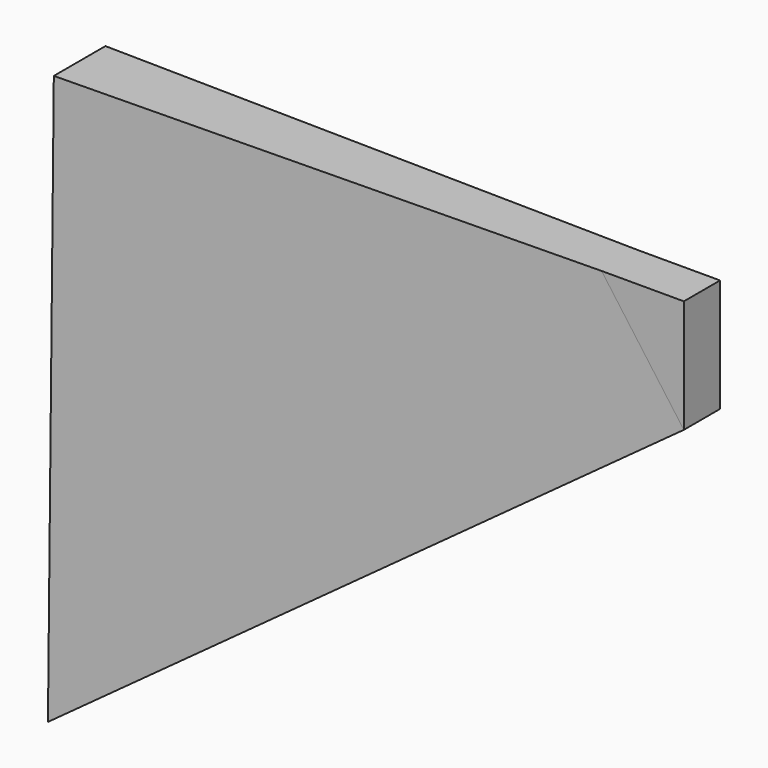
from build123d import *

# Parameters (mm, degrees)
F1_DEPTH = 7
F3_DEPTH = 40.4378042152
F4_DEPTH = 5.8827169768
F5_R     = 1.75
F6_DEPTH = 2


with BuildPart() as f1:
    # F0 (on Front) → F1 (new body)
    with BuildSketch(Plane.XZ):
        Polygon((27.5, 15), (27.5, 25), (-27.5, 25), (-27.5, -25), align=None)
    extrude(amount=F1_DEPTH)

    # F2 (on face) → F3 (cut, through all)
    with BuildSketch(Plane(origin=(2.3783783784, 0, -3.2702702703), x_dir=(0.8087360843, 0, 0.5881716977), z_dir=(0.5881716977, 0, -0.8087360843))):
        Polygon((31.0628177835, 7), (-36.9445347602, 7), (31.0628177835, 5.5), align=None)
        Polygon((31.0628177835, 1.5), (-36.9445347602, 0), (31.0628177835, 0), align=None)
    extrude(amount=-F3_DEPTH, mode=Mode.SUBTRACT)

    # F4 (cut, through all): faces of the model
    f4_faces = [f1.faces().sort_by_distance(p)[0] for p in [
        (23.8636363636, -6.25, 20),
        (23.8636363636, -0.75, 20),
    ]]
    extrude(f4_faces, amount=-F4_DEPTH, mode=Mode.SUBTRACT)

    # F5 (on face) → F6 (cut)
    with BuildSketch(Plane(origin=(-0.0145283595, -0.8144686369, -0.0105660796), x_dir=(-0.9998409705, 0.017832, 0.0002313341), z_dir=(0.0178335005, 0.9997568455, 0.0129698185))):
        with Locations((7.489843337, 10.0109374025)):
            Circle(F5_R)
    extrude(amount=-F6_DEPTH, mode=Mode.SUBTRACT)


solid = f1.part
